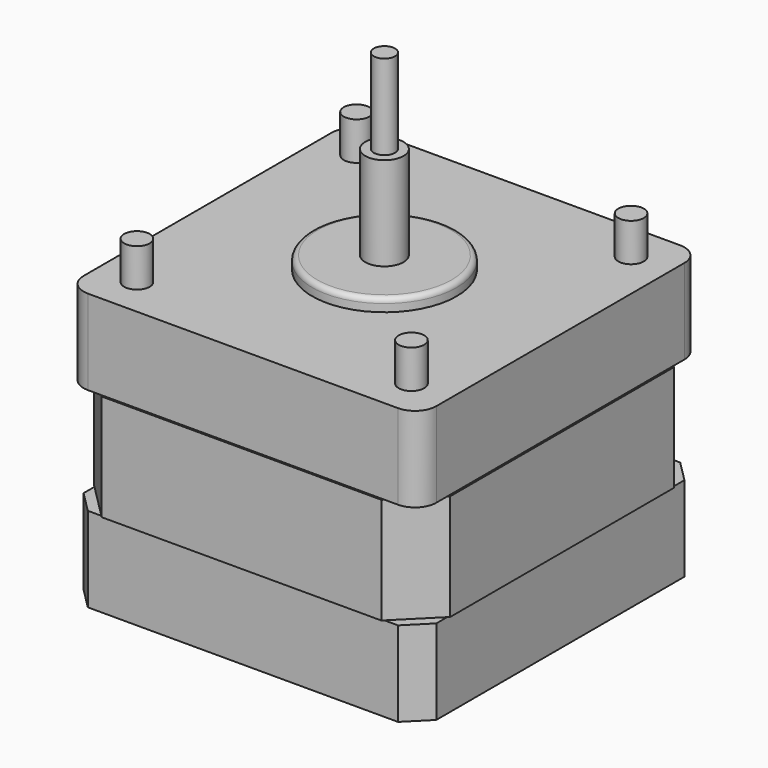
from build123d import *

# Parameters (mm, degrees)
CYLINDER007_R     = 1.5
CYLINDER007_DEPTH = 10
CYLINDER006_R     = 1.5
CYLINDER006_DEPTH = 10
CYLINDER005_R     = 1.5
CYLINDER005_DEPTH = 10
CYLINDER004_R     = 1.5
CYLINDER004_DEPTH = 10
CYLINDER001_R     = 8.5
CYLINDER001_DEPTH = 32
FILLET001_R       = 0.6
CYLINDER002_R     = 8.5
CYLINDER002_DEPTH = 3
BOX001_W          = 44.5
BOX001_H          = 44.5
BOX001_DEPTH      = 12.5
BOX_W             = 41.5
BOX_H             = 41.5
BOX_DEPTH         = 32.5
FILLET_R          = 2.5
CHAMFER_SIZE      = 2.5
BOX002_W          = 41.9
BOX002_H          = 41.9
BOX002_DEPTH      = 12.5
CHAMFER001_SIZE   = 4.5
CYLINDER003_R     = 1.25
CYLINDER003_DEPTH = 10
CYLINDER_R        = 2.25
CYLINDER_DEPTH    = 45


with BuildPart() as tornillo020:
    # Cylinder007 → Cylinder007 (new body)
    with BuildSketch(Plane(origin=(-50.4, -6.1, 27), x_dir=(1, 0, 0), z_dir=(0, 0, 1))):
        Circle(CYLINDER007_R)
    extrude(amount=CYLINDER007_DEPTH)


with BuildPart() as tornillo019:
    # Cylinder006 → Cylinder006 (new body)
    with BuildSketch(Plane(origin=(-18.1, -6.1, 27), x_dir=(1, 0, 0), z_dir=(0, 0, 1))):
        Circle(CYLINDER006_R)
    extrude(amount=CYLINDER006_DEPTH)


with BuildPart() as tornillo018:
    # Cylinder005 → Cylinder005 (new body)
    with BuildSketch(Plane(origin=(-50.4, -38.4, 27), x_dir=(1, 0, 0), z_dir=(0, 0, 1))):
        Circle(CYLINDER005_R)
    extrude(amount=CYLINDER005_DEPTH)


with BuildPart() as tornillo017:
    # Cylinder004 → Cylinder004 (new body)
    with BuildSketch(Plane(origin=(-18.1, -38.4, 27), x_dir=(1, 0, 0), z_dir=(0, 0, 1))):
        Circle(CYLINDER004_R)
    extrude(amount=CYLINDER004_DEPTH)


with BuildPart() as fillet001:
    # Cylinder001 → Cylinder001 (new body)
    with BuildSketch(Plane(origin=(-34.2, -22.25, 2), x_dir=(1, 0, 0), z_dir=(0, 0, 1))):
        Circle(CYLINDER001_R)
    extrude(amount=CYLINDER001_DEPTH)

    # Fillet001
    fillet001_edges = [fillet001.edges().sort_by_distance(p)[0] for p in [
        (-42.7, -22.25, 34),
    ]]
    fillet(fillet001_edges, radius=FILLET001_R)


with BuildPart() as cilindro036:
    # Cylinder002 → Cylinder002 (new body)
    with BuildSketch(Plane(origin=(-34.2, -22.25, -1), x_dir=(1, 0, 0), z_dir=(0, 0, 1))):
        Circle(CYLINDER002_R)
    extrude(amount=CYLINDER002_DEPTH)


with BuildPart() as cubo087:
    # Box001 → Box001 (new body)
    with BuildSketch(Plane(origin=(-56, -44, 10), x_dir=(1, 0, 0), z_dir=(0, 0, 1))):
        with Locations((22.25, 22.25)):
            Rectangle(BOX001_W, BOX001_H)
    extrude(amount=BOX001_DEPTH)


with BuildPart() as chamfer_body:
    # Box → Box (new body)
    with BuildSketch(Plane(origin=(-55, -43, 0), x_dir=(1, 0, 0), z_dir=(0, 0, 1))):
        with Locations((20.75, 20.75)):
            Rectangle(BOX_W, BOX_H)
    extrude(amount=BOX_DEPTH)

    # Cut: cut Cubo087
    add(cubo087.part, mode=Mode.SUBTRACT)

    # Fillet
    fillet_edges = [chamfer_body.edges().sort_by_distance(p)[0] for p in [
        (-55, -43, 27.5),
        (-55, -1.5, 27.5),
        (-13.5, -1.5, 27.5),
        (-13.5, -43, 27.5),
    ]]
    fillet(fillet_edges, radius=FILLET_R)

    # Chamfer
    chamfer_edges = [chamfer_body.edges().sort_by_distance(p)[0] for p in [
        (-55, -1.5, 5),
        (-55, -43, 5),
        (-13.5, -1.5, 5),
        (-13.5, -43, 5),
    ]]
    chamfer(chamfer_edges, length=CHAMFER_SIZE)


with BuildPart() as cut001:
    # Box002 → Box002 (new body)
    with BuildSketch(Plane(origin=(-55.2, -43.2, 10), x_dir=(1, 0, 0), z_dir=(0, 0, 1))):
        with Locations((20.95, 20.95)):
            Rectangle(BOX002_W, BOX002_H)
    extrude(amount=BOX002_DEPTH)

    # Chamfer001
    chamfer001_edges = [cut001.edges().sort_by_distance(p)[0] for p in [
        (-55.2, -43.2, 16.25),
        (-55.2, -1.3, 16.25),
        (-13.3, -43.2, 16.25),
        (-13.3, -1.3, 16.25),
    ]]
    chamfer(chamfer001_edges, length=CHAMFER001_SIZE)

    # Fusion: union Chamfer body
    add(chamfer_body.part)

    # Cut001: cut Cilindro036
    add(cilindro036.part, mode=Mode.SUBTRACT)


with BuildPart() as cilindro037:
    # Cylinder003 → Cylinder003 (new body)
    with BuildSketch(Plane(origin=(-34.2, -22.25, 45), x_dir=(1, 0, 0), z_dir=(0, 0, 1))):
        Circle(CYLINDER003_R)
    extrude(amount=CYLINDER003_DEPTH)


with BuildPart() as obj1:
    # Cylinder → Cylinder (new body)
    with BuildSketch(Plane(origin=(-34.2, -22.25, 0), x_dir=(1, 0, 0), z_dir=(0, 0, 1))):
        Circle(CYLINDER_R)
    extrude(amount=CYLINDER_DEPTH)

    # Fusion002: union Fillet001, Cut001, Cilindro037
    add(fillet001.part)
    add(cut001.part)
    add(cilindro037.part)

    # Fusion001: union tornillo020, tornillo019, tornillo018, tornillo017
    add(tornillo020.part)
    add(tornillo019.part)
    add(tornillo018.part)
    add(tornillo017.part)


solid = obj1.part
